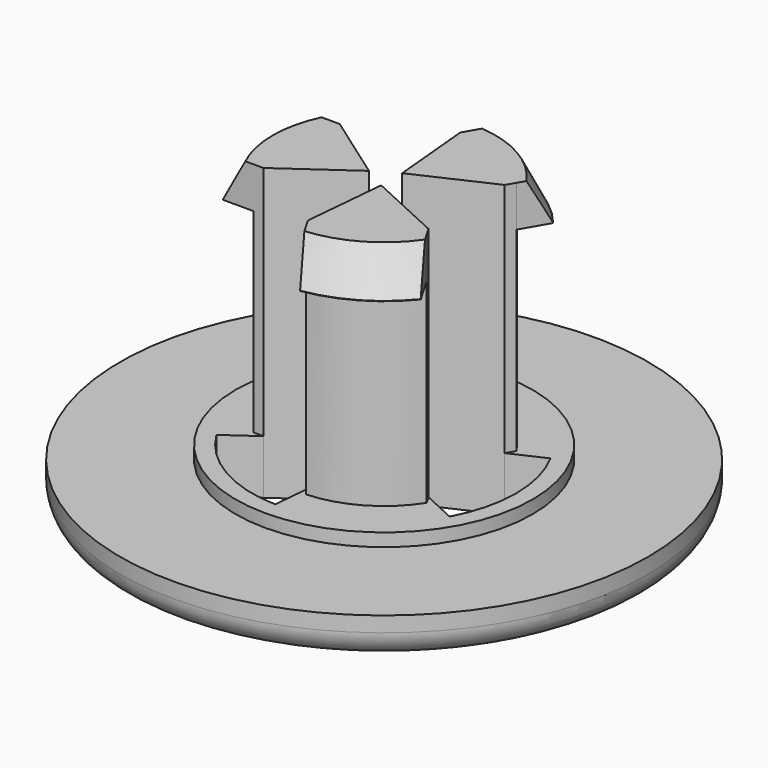
from build123d import *

# Parameters (mm, degrees)
F0_R        = 10.16
F1_DEPTH    = 1.5875
F2_R        = 4
F3_DEPTH    = 8
F5_DEPTH    = 8
F6_R        = 5.715
F7_DEPTH    = 0.5
F9_DEPTH    = 1.5875
F10_SIZE2   = 1.5748
F10_SIZE    = 0.79375
F10_2_SIZE2 = 1.5748
F10_2_SIZE  = 0.79375
F10_3_SIZE2 = 1.5748
F10_3_SIZE  = 0.79375
F12_DEPTH   = 2.0885
F13_R       = 1


with BuildPart() as f1:
    # F0 (on Top) → F1 (new body)
    with BuildSketch(Plane.XY):
        Circle(F0_R)
    extrude(amount=F1_DEPTH)

    # F2 (on face) → F3 (join)
    with BuildSketch(Plane.XY.offset(1.5875)):
        Circle(F2_R)
        Polygon((0, 3.6661742094), (3.175, 1.8330871047), (3.175, -1.8330871047), (0, -3.6661742094), (-3.175, -1.8330871047), (-3.175, 1.8330871047), align=None, mode=Mode.SUBTRACT)
        Polygon((-0.5826233556, 0), (-3.175, 1.8330871047), (-3.175, -1.8330871047), align=None)
        Polygon((0.2913116778, 0.5045666267), (3.175, 1.8330871047), (0, 3.6661742094), align=None)
        Polygon((0, -3.6661742094), (3.175, -1.8330871047), (0.2913116778, -0.5045666267), align=None)
    extrude(amount=F3_DEPTH)

    # F4 (on face) → F5 (cut, through all)
    with BuildSketch(Plane.XY.offset(9.5875)):
        with BuildLine():
            Line((-3.175, 1.8330871047), (0, 3.6661742094))
            Line((0, 3.6661742094), (0.1901242338, 3.9954790421))
            ThreePointArc((0.1901242338, 3.9954790421), (-2, 3.4641016151), (-3.5552484676, 1.8330871047))
            Line((-3.5552484676, 1.8330871047), (-3.175, 1.8330871047))
        make_face()
        with BuildLine():
            Line((3.3651242338, 2.1623919374), (3.175, 1.8330871047))
            Line((3.175, 1.8330871047), (3.175, -1.8330871047))
            Line((3.175, -1.8330871047), (3.3651242338, -2.1623919374))
            ThreePointArc((3.3651242338, -2.1623919374), (3.838000582, -1.1268325219), (4, 0))
            ThreePointArc((4, 0), (3.838000582, 1.1268325219), (3.3651242338, 2.1623919374))
        make_face()
        with BuildLine():
            Line((0, -3.6661742094), (-3.175, -1.8330871047))
            Line((-3.175, -1.8330871047), (-3.5552484676, -1.8330871047))
            ThreePointArc((-3.5552484676, -1.8330871047), (-2, -3.4641016151), (0.1901242338, -3.9954790421))
            Line((0.1901242338, -3.9954790421), (0, -3.6661742094))
        make_face()
    extrude(amount=-F5_DEPTH, mode=Mode.SUBTRACT)

    # F6 (on face) → F7 (join)
    with BuildSketch(Plane.XY.offset(1.5875)):
        Circle(F6_R)
    extrude(amount=F7_DEPTH)

    # F8 (on face) → F9 (join)
    with BuildSketch(Plane.XY.offset(9.5875)):
        Polygon((-3.175, -1.8330871047), (-0.5826233556, 0), (-3.175, 1.8330871047), (-3.5552484676, 1.8330871047), (-3.5552484676, -1.8330871047), align=None)
        with BuildLine():
            ThreePointArc((-3.5552484676, 1.8330871047), (-4, 0), (-3.5552484676, -1.8330871047))
            Line((-3.5552484676, -1.8330871047), (-3.5552484676, 1.8330871047))
        make_face()
        with BuildLine():
            Line((-4.7377411988, -1.8330871047), (-3.5552484676, -1.8330871047))
            ThreePointArc((-3.5552484676, -1.8330871047), (-4, 0), (-3.5552484676, 1.8330871047))
            Line((-3.5552484676, 1.8330871047), (-4.7377411988, 1.8330871047))
            ThreePointArc((-4.7377411988, 1.8330871047), (-5.08, 0), (-4.7377411988, -1.8330871047))
        make_face()
        Polygon((0.1901242338, 3.9954790421), (0, 3.6661742094), (0.2913116778, 0.5045666267), (3.175, 1.8330871047), (3.3651242338, 2.1623919374), align=None)
        with BuildLine():
            ThreePointArc((3.3651242338, 2.1623919374), (2, 3.4641016151), (0.1901242338, 3.9954790421))
            Line((0.1901242338, 3.9954790421), (3.3651242338, 2.1623919374))
        make_face()
        with BuildLine():
            Line((0.7813705994, 5.019547787), (0.1901242338, 3.9954790421))
            ThreePointArc((0.1901242338, 3.9954790421), (2, 3.4641016151), (3.3651242338, 2.1623919374))
            Line((3.3651242338, 2.1623919374), (3.9563705994, 3.1864606824))
            ThreePointArc((3.9563705994, 3.1864606824), (2.54, 4.3994090512), (0.7813705994, 5.019547787))
        make_face()
        Polygon((3.175, -1.8330871047), (0.2913116778, -0.5045666267), (0, -3.6661742094), (0.1901242338, -3.9954790421), (3.3651242338, -2.1623919374), align=None)
        with BuildLine():
            ThreePointArc((0.1901242338, -3.9954790421), (2, -3.4641016151), (3.3651242338, -2.1623919374))
            Line((3.3651242338, -2.1623919374), (0.1901242338, -3.9954790421))
        make_face()
        with BuildLine():
            Line((3.9563705994, -3.1864606824), (3.3651242338, -2.1623919374))
            ThreePointArc((3.3651242338, -2.1623919374), (2, -3.4641016151), (0.1901242338, -3.9954790421))
            Line((0.1901242338, -3.9954790421), (0.7813705994, -5.019547787))
            ThreePointArc((0.7813705994, -5.019547787), (2.54, -4.3994090512), (3.9563705994, -3.1864606824))
        make_face()
    extrude(amount=F9_DEPTH)

    # F10
    f10_edges = [f1.edges().sort_by_distance(p)[0] for p in [
        (2.54, -4.399409, 11.175),
    ]]
    f10_side = f1.faces().sort_by_distance((1.667082, -2.88747, 11.175))[0]
    chamfer(f10_edges, length=F10_SIZE, length2=F10_SIZE2, reference=f10_side)

    # F10#2
    f10_2_edges = [f1.edges().sort_by_distance(p)[0] for p in [
        (2.54, 4.399409, 11.175),
    ]]
    f10_2_side = f1.faces().sort_by_distance((1.667082, 2.88747, 11.175))[0]
    chamfer(f10_2_edges, length=F10_2_SIZE, length2=F10_2_SIZE2, reference=f10_2_side)

    # F10#3
    f10_3_edges = [f1.edges().sort_by_distance(p)[0] for p in [
        (-5.08, 0, 11.175),
    ]]
    f10_3_side = f1.faces().sort_by_distance((-3.334164, 0, 11.175))[0]
    chamfer(f10_3_edges, length=F10_3_SIZE, length2=F10_3_SIZE2, reference=f10_3_side)

    # F11 (on face) → F12 (cut, through all)
    with BuildSketch(Plane.XY.offset(2.0875)):
        with BuildLine():
            ThreePointArc((4.4630241186, -2.4264821691), (4.9233404576, -1.2518461322), (5.08, 0))
            ThreePointArc((5.08, 0), (4.9233404576, 1.2518461322), (4.4630241186, 2.4264821691))
            Line((4.4630241186, 2.4264821691), (3.175, 1.8330871047))
            Line((3.175, 1.8330871047), (0.2913116778, 0.5045666267))
            Line((0.2913116778, 0.5045666267), (0, 3.6661742094))
            Line((0, 3.6661742094), (-0.1301168591, 5.0783333489))
            ThreePointArc((-0.1301168591, 5.0783333489), (-2.54, 4.3994090512), (-4.3329072595, 2.6518511799))
            Line((-4.3329072595, 2.6518511799), (-3.175, 1.8330871047))
            Line((-3.175, 1.8330871047), (-0.5826233556, 0))
            Line((-0.5826233556, 0), (-3.175, -1.8330871047))
            Line((-3.175, -1.8330871047), (-4.3329072595, -2.6518511799))
            ThreePointArc((-4.3329072595, -2.6518511799), (-2.54, -4.3994090512), (-0.1301168591, -5.0783333489))
            Line((-0.1301168591, -5.0783333489), (0, -3.6661742094))
            Line((0, -3.6661742094), (0.2913116778, -0.5045666267))
            Line((0.2913116778, -0.5045666267), (3.175, -1.8330871047))
            Line((3.175, -1.8330871047), (4.4630241186, -2.4264821691))
        make_face()
    extrude(amount=-F12_DEPTH, mode=Mode.SUBTRACT)

    # F13
    f13_edges = [f1.edges().sort_by_distance(p)[0] for p in [
        (-10.16, 0, 0),
    ]]
    fillet(f13_edges, radius=F13_R)


solid = f1.part
